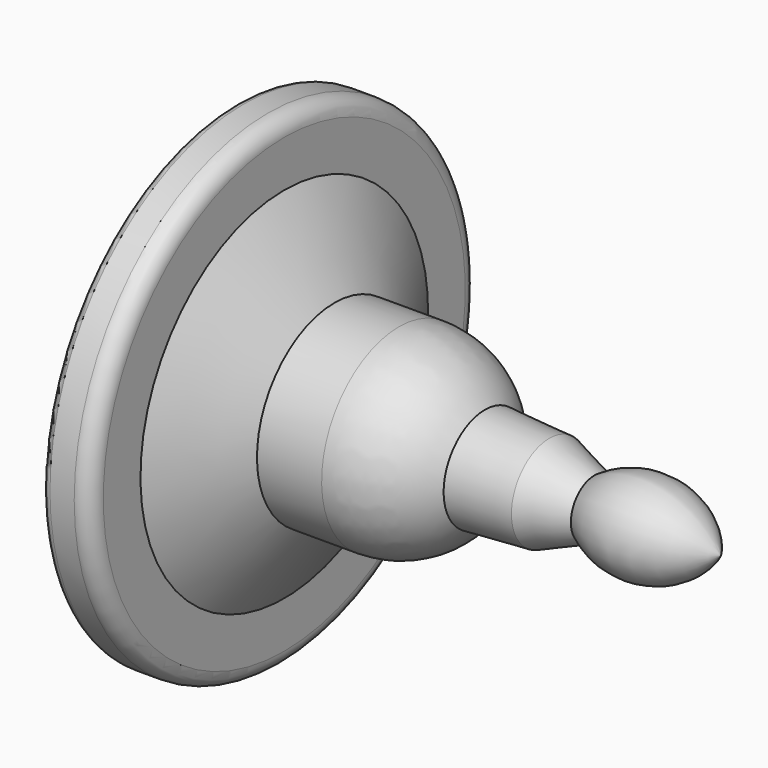
from build123d import *

# Parameters (mm, degrees)
F2_R = 0.635
F3_R = 0.3175


with BuildPart() as f1:
    # F0 (on Front) → F1 (revolve)
    with BuildSketch(Plane.XZ):
        with BuildLine():
            Line((-19.05, 0), (0, 0))
            ThreePointArc((0, 0), (-2.225907, 1.668059), (-4.959707, 1.154812))
            Line((-4.959707, 1.154812), (-6.728575, 1.862012))
            Line((-6.728575, 1.862012), (-9.263298, 2.025665))
            ThreePointArc((-9.263298, 2.025665), (-10.728525, 3.331919), (-12.63395, 3.803665))
            Line((-12.63395, 3.803665), (-15.17395, 3.803665))
            Line((-15.17395, 3.803665), (-17.145, 7.064196))
            Line((-17.145, 7.064196), (-17.145, 9.525))
            Line((-17.145, 9.525), (-19.05, 9.525))
            Line((-19.05, 9.525), (-19.05, 0))
        make_face()
    revolve(axis=Axis((-9.525, 0, 0), (-1, 0, 0)))

    # F2
    f2_edges = [f1.edges().sort_by_distance(p)[0] for p in [
        (-17.145, 0, -9.525),
    ]]
    fillet(f2_edges, radius=F2_R)

    # F3
    f3_edges = [f1.edges().sort_by_distance(p)[0] for p in [
        (-19.05, 0, -9.525),
    ]]
    fillet(f3_edges, radius=F3_R)


solid = f1.part
